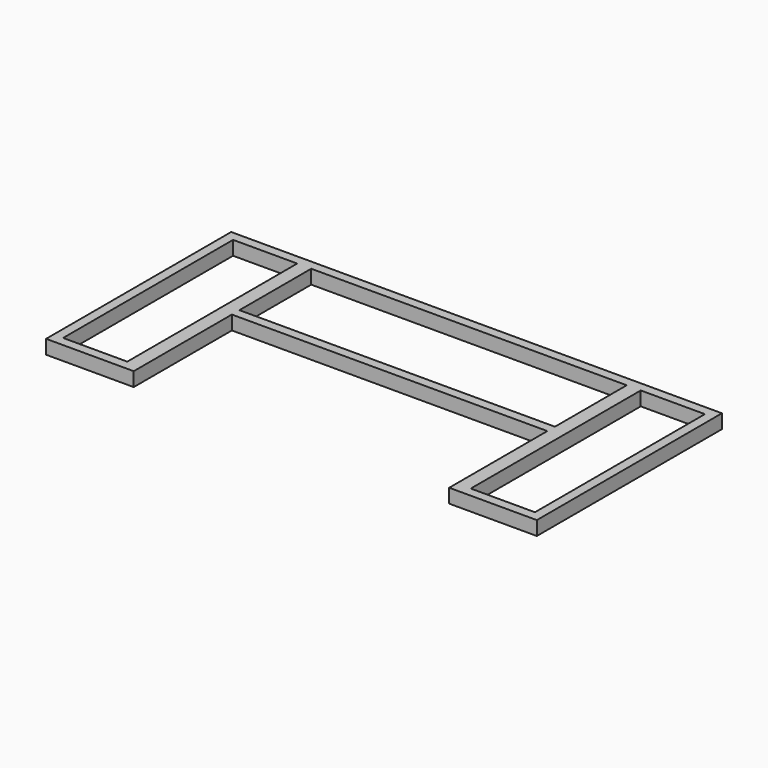
from build123d import *

# Parameters (mm, degrees)
F0_W     = 40
F0_H     = 0.1
F0_H_2   = 27
F0_W_2   = 900
F0_W_3   = 183
F0_H_3   = 606
F1_DEPTH = 40
F2_T     = -2
F3_DEPTH = 390
F4_R     = 4
F5_DEPTH = 25
F4_R_2   = 6
F6_DEPTH = 40


with BuildPart() as f1:
    # F0 (on Top) → F1 (new body)
    with BuildSketch(Plane.XY):
        with Locations((470, 330.05)):
            Rectangle(F0_W, F0_H)
        with Locations((-470, 330.05)):
            Rectangle(F0_W, F0_H)
        with Locations((470, 316.5)):
            Rectangle(F0_W, F0_H_2)
        with Locations((0, 316.5)):
            Rectangle(F0_W_2, F0_H_2)
        with Locations((-470, 316.5)):
            Rectangle(F0_W, F0_H_2)
        Polygon((450, -330), (700, -330), (700, 330), (490, 330), (490, 303), (450, 303), (450, 47), (-450, 47), (-450, 303), (-490, 303), (-490, 330), (-700, 330), (-700, -330), (-450, -330), (-450, 20), (450, 20), align=None)
        with Locations((-581.5, 0)):
            Rectangle(F0_W_3, F0_H_3, mode=Mode.SUBTRACT)
        with Locations((581.5, 0)):
            Rectangle(F0_W_3, F0_H_3, mode=Mode.SUBTRACT)
    extrude(amount=F1_DEPTH)

    # F2
    f2_openings = [f1.faces().sort_by_distance(p)[0] for p in [
        (-470, 330.1, 20),
        (470, 330.1, 20),
    ]]
    offset(amount=F2_T, openings=f2_openings, kind=Kind.INTERSECTION)

    # F3 (add): faces of the model
    f3_faces = [f1.faces().sort_by_distance(p)[0] for p in [
        (489.4343145751, 330.1, 20),
        (-450.5656854249, 330.1, 20),
    ]]
    extrude(f3_faces, amount=-F3_DEPTH)

    # F4 (on face) → F5 (cut)
    with BuildSketch(Plane(origin=(0, 0, 0), x_dir=(1, 0, 0), z_dir=(0, 0, -1))):
        with Locations((-675, -316.5)):
            Circle(F4_R)
        with Locations((-625, -316.5)):
            Circle(F4_R)
        with Locations((675, -316.5)):
            Circle(F4_R)
        with Locations((625, -316.5)):
            Circle(F4_R)
        with Locations((-675, 316.5)):
            Circle(F4_R)
        with Locations((-625, 316.5)):
            Circle(F4_R)
        with Locations((675, 316.5)):
            Circle(F4_R)
        with Locations((625, 316.5)):
            Circle(F4_R)
    extrude(amount=-F5_DEPTH, mode=Mode.SUBTRACT)

    # F4 (on face) → F6 (join)
    with BuildSketch(Plane(origin=(0, 0, 0), x_dir=(1, 0, 0), z_dir=(0, 0, -1))):
        with Locations((-675, -316.5)):
            Circle(F4_R_2)
        with Locations((-675, -316.5)):
            Circle(F4_R, mode=Mode.SUBTRACT)
        with Locations((-625, -316.5)):
            Circle(F4_R_2)
        with Locations((-625, -316.5)):
            Circle(F4_R, mode=Mode.SUBTRACT)
        with Locations((-675, 316.5)):
            Circle(F4_R_2)
        with Locations((-675, 316.5)):
            Circle(F4_R, mode=Mode.SUBTRACT)
        with Locations((-625, 316.5)):
            Circle(F4_R_2)
        with Locations((-625, 316.5)):
            Circle(F4_R, mode=Mode.SUBTRACT)
        with Locations((675, 316.5)):
            Circle(F4_R_2)
        with Locations((675, 316.5)):
            Circle(F4_R, mode=Mode.SUBTRACT)
        with Locations((625, 316.5)):
            Circle(F4_R_2)
        with Locations((625, 316.5)):
            Circle(F4_R, mode=Mode.SUBTRACT)
        with Locations((675, -316.5)):
            Circle(F4_R_2)
        with Locations((675, -316.5)):
            Circle(F4_R, mode=Mode.SUBTRACT)
        with Locations((625, -316.5)):
            Circle(F4_R_2)
        with Locations((625, -316.5)):
            Circle(F4_R, mode=Mode.SUBTRACT)
    extrude(amount=-F6_DEPTH)


solid = f1.part
